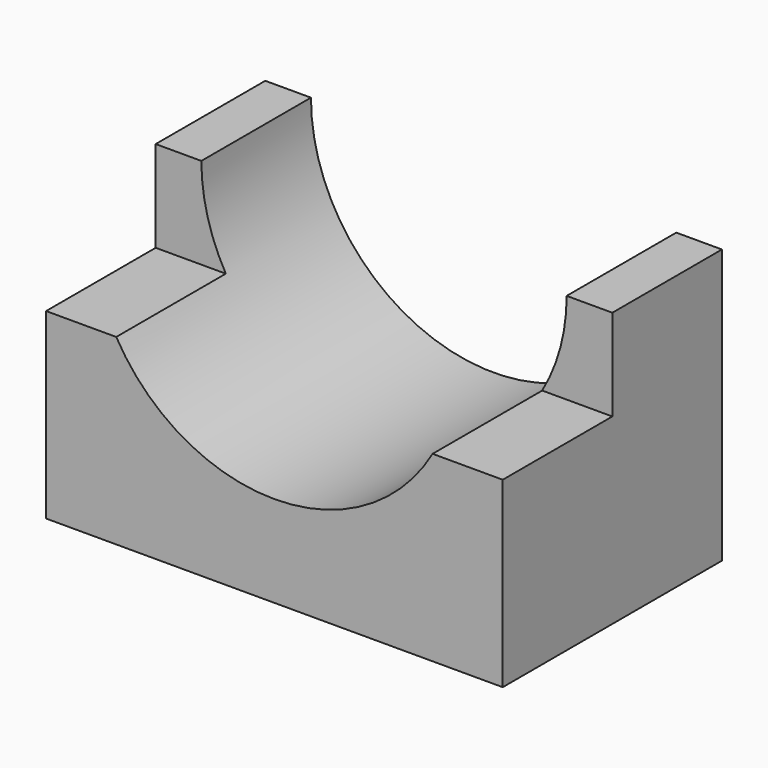
from build123d import *

# Parameters (mm, degrees)
F0_W     = 254
F0_H     = 152.4
F1_DEPTH = 152.4
F2_R     = 101.6
F3_DEPTH = 152.4
F4_W     = 254
F4_H     = 50.8
F5_DEPTH = 76.2


with BuildPart() as f1:
    # F0 (on Top) → F1 (new body)
    with BuildSketch(Plane.XY):
        with Locations((127, 76.2)):
            Rectangle(F0_W, F0_H)
    extrude(amount=F1_DEPTH)

    # F2 (on face) → F3 (cut)
    with BuildSketch(Plane.XZ):
        with Locations((127, 152.4)):
            Circle(F2_R)
    extrude(amount=-F3_DEPTH, mode=Mode.SUBTRACT)

    # F4 (on face) → F5 (cut)
    with BuildSketch(Plane.XZ):
        with Locations((127, 127)):
            Rectangle(F4_W, F4_H)
    extrude(amount=-F5_DEPTH, mode=Mode.SUBTRACT)


solid = f1.part
